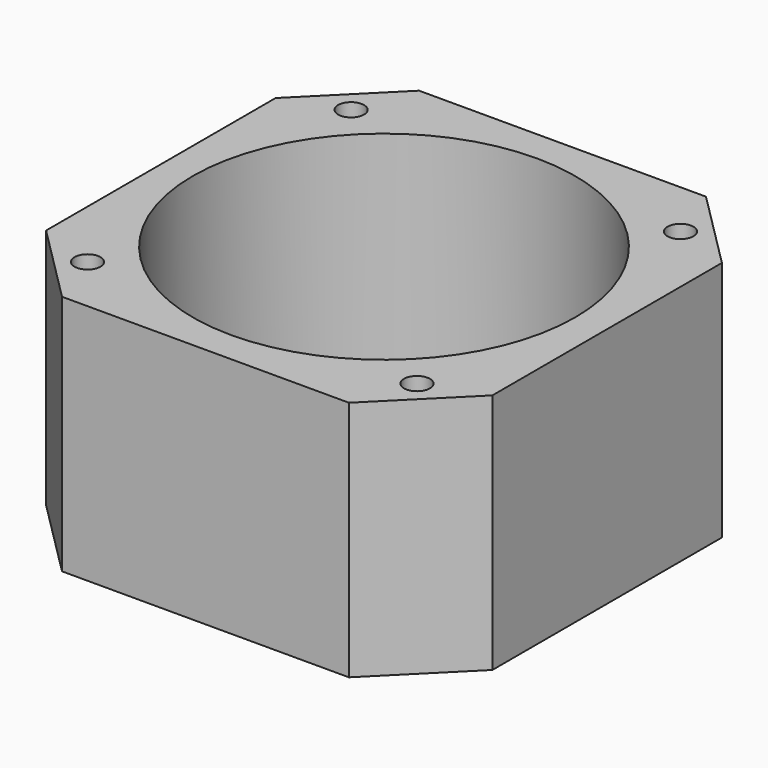
from build123d import *

# Parameters (mm, degrees)
SKETCH100_W     = 42
SKETCH100_H     = 42
PAD039_DEPTH    = 22.75
CHAMFER017_SIZE = 7.5
SKETCH087_R     = 1.22
POCKET034_DEPTH = 22.751
SKETCH093_R     = 18
POCKET037_DEPTH = 22.751


with BuildPart() as part:
    # Sketch100 → Pad039 (new body)
    with BuildSketch(Plane.XY):
        Rectangle(SKETCH100_W, SKETCH100_H)
    extrude(amount=PAD039_DEPTH)

    # Chamfer017
    chamfer017_edges = [part.edges().sort_by_distance(p)[0] for p in [
        (-21, -21, 11.375),
        (-21, 21, 11.375),
        (21, -21, 11.375),
        (21, 21, 11.375),
    ]]
    chamfer(chamfer017_edges, length=CHAMFER017_SIZE)

    # Sketch087 (on Face2 of Chamfer017) → Pocket034 (cut, through all)
    with BuildSketch(Plane(origin=(0, 0, 0), x_dir=(1, 0, 0), z_dir=(0, 0, -1))):
        with Locations((-15.5, 15.5)):
            Circle(SKETCH087_R)
        with Locations((15.5, 15.5)):
            Circle(SKETCH087_R)
        with Locations((15.5, -15.5)):
            Circle(SKETCH087_R)
        with Locations((-15.5, -15.5)):
            Circle(SKETCH087_R)
    extrude(amount=-POCKET034_DEPTH, mode=Mode.SUBTRACT)

    # Sketch093 (on Face5 of Pocket034) → Pocket037 (cut, through all)
    with BuildSketch(Plane.XY.offset(22.75)):
        Circle(SKETCH093_R)
    extrude(amount=-POCKET037_DEPTH, mode=Mode.SUBTRACT)


with BuildPart() as part_1:
    # Body025 placement: moved
    add(part.part.moved(Location((0, 0, 9.6))))


solid = part_1.part
